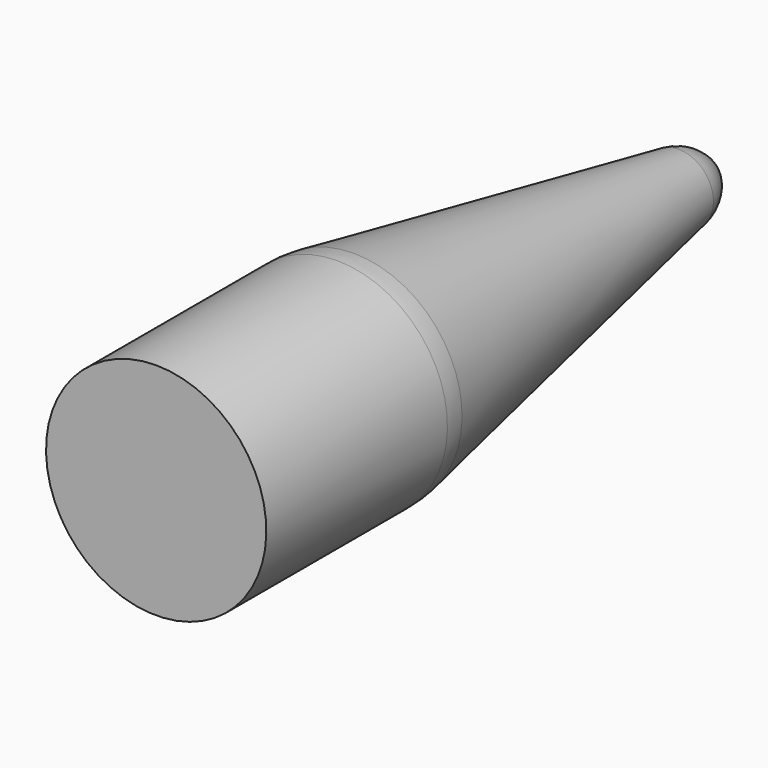
from build123d import *


with BuildPart() as f1:
    # F0 (on Right) → F1 (revolve)
    with BuildSketch(Plane.YZ):
        with BuildLine():
            ThreePointArc((100.764385, 5.95548), (100.200711, 6.031702), (99.632478, 6.057177))
            Line((99.632478, 6.057177), (87.180994, 6.057177))
            Line((87.180994, 6.057177), (87.180994, 0))
            Line((87.180994, 0), (125.407994, 0))
            ThreePointArc((125.407994, 0), (124.506121, 1.256163), (123.104081, 1.908548))
            Line((123.104081, 1.908548), (100.764385, 5.95548))
        make_face()
    revolve(axis=Axis((0, 106.294494, 0), (0, 1, 0)))


solid = f1.part
